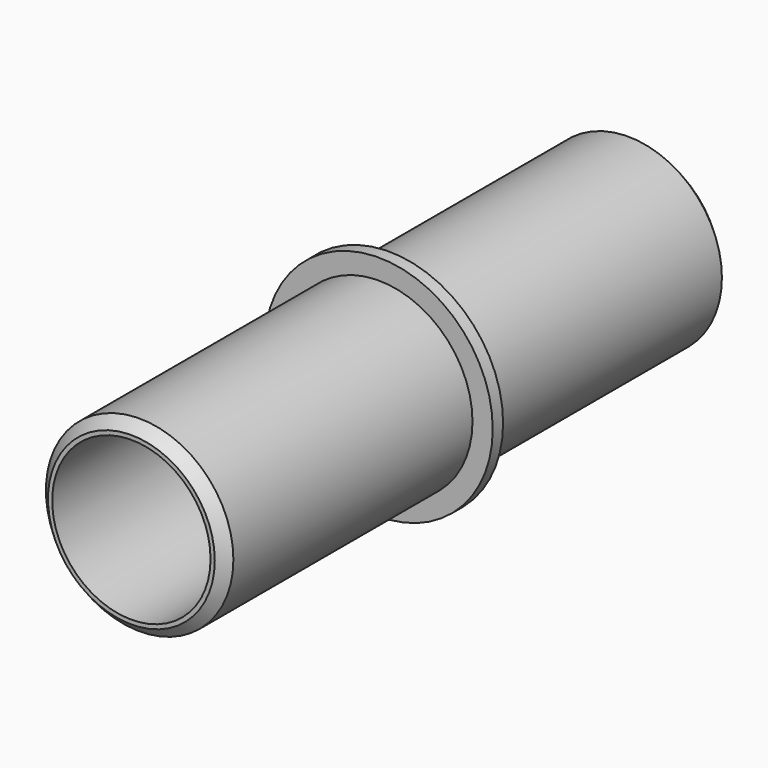
from build123d import *

# Parameters (mm, degrees)
F0_R     = 23.00605
F0_R_2   = 19.431
F1_DEPTH = 77.47
F2_SIZE  = 2.54
F0_R_3   = 27.9781
F3_DEPTH = 1.5875


with BuildPart() as f1:
    # F0 (on Front) → F1 (new body, symmetric)
    with BuildSketch(Plane.XZ):
        Circle(F0_R)
        Circle(F0_R_2, mode=Mode.SUBTRACT)
    extrude(amount=F1_DEPTH, both=True)

    # F2
    f2_edges = [f1.edges().sort_by_distance(p)[0] for p in [
        (-23.00605, -77.47, 0),
        (-23.00605, 77.47, 0),
    ]]
    chamfer(f2_edges, length=F2_SIZE)

    # F0 (on Front) → F3 (join, symmetric)
    with BuildSketch(Plane.XZ):
        Circle(F0_R_3)
        Circle(F0_R, mode=Mode.SUBTRACT)
    extrude(amount=F3_DEPTH, both=True)


solid = f1.part
